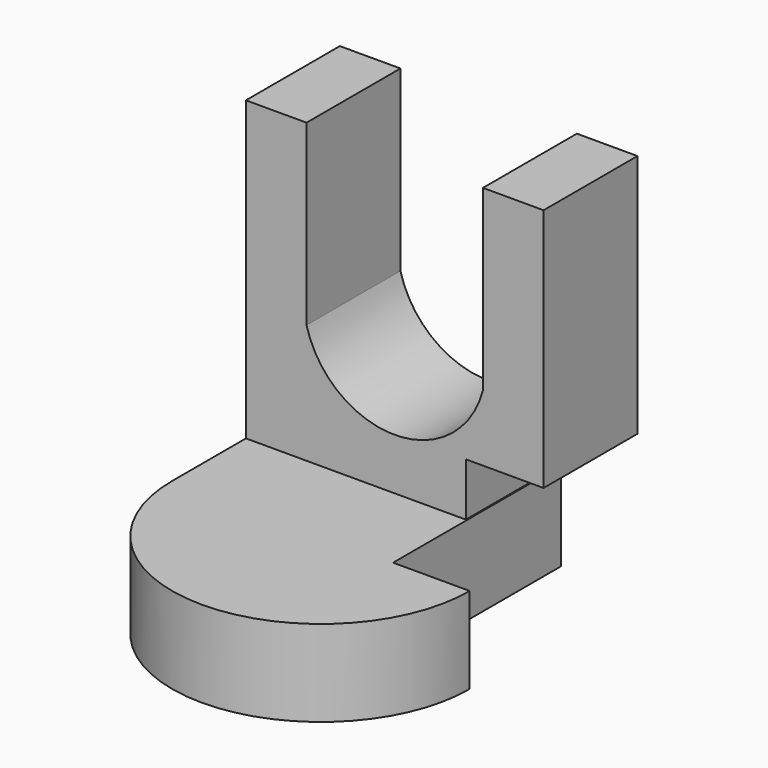
from build123d import *

# Parameters (mm, degrees)
F1_DEPTH = 29.718
F0_W     = 75.3477662802
F0_H     = 22.4088169634
F2_DEPTH = 53.086
F4_DEPTH = 21.844
F5_W     = 19.3952620029
F5_H     = 23.368
F6_DEPTH = 22.4098169634
F8_DEPTH = 29.719


with BuildPart() as f1:
    # F0 (on Front) → F1 (new body)
    with BuildSketch(Plane.XZ):
        with BuildLine():
            Line((-60.0075013936, 75.3477662802), (-75.3477662802, 75.3477662802))
            Line((-75.3477662802, 75.3477662802), (-75.3477662802, 0))
            Line((-75.3477662802, 0), (0, 0))
            Line((0, 0), (0, 75.3477662802))
            Line((0, 75.3477662802), (-15.3402648866, 75.3477662802))
            Line((-15.3402648866, 75.3477662802), (-15.3402648866, 30.2293412387))
            ThreePointArc((-15.3402648866, 30.2293412387), (-37.6738831401, 13.0326763907), (-60.0075013936, 30.2293412387))
            Line((-60.0075013936, 30.2293412387), (-60.0075013936, 75.3477662802))
        make_face()
    extrude(amount=F1_DEPTH)

    # F0 (on Front) → F2 (join)
    with BuildSketch(Plane.XZ):
        with Locations((-37.6738831401, -11.2044084817)):
            Rectangle(F0_W, F0_H)
    extrude(amount=F2_DEPTH)

    # F3 (on face) → F4 (join)
    with BuildSketch(Plane.XY):
        with BuildLine():
            Line((0, -53.086), (-75.3477662802, -53.086))
            ThreePointArc((-75.3477662802, -53.086), (-37.6738831401, -90.7598831401), (0, -53.086))
        make_face()
    extrude(amount=-F4_DEPTH)

    # F5 (on face) → F6 (cut, through all)
    with BuildSketch(Plane.XY):
        with Locations((-9.6976310015, -41.402)):
            Rectangle(F5_W, F5_H)
    extrude(amount=-F6_DEPTH, mode=Mode.SUBTRACT)

    # F7 (on face) → F8 (cut, through all)
    with BuildSketch(Plane.XZ.offset(29.718)):
        Polygon((0, 13.4468190372), (-19.6963120252, 13.4468190372), (-19.6963120252, 0), (-19.3952620029, 0), (-19.3952620029, -22.4088169634), (0, -22.4088169634), align=None)
    extrude(amount=-F8_DEPTH, mode=Mode.SUBTRACT)


solid = f1.part
